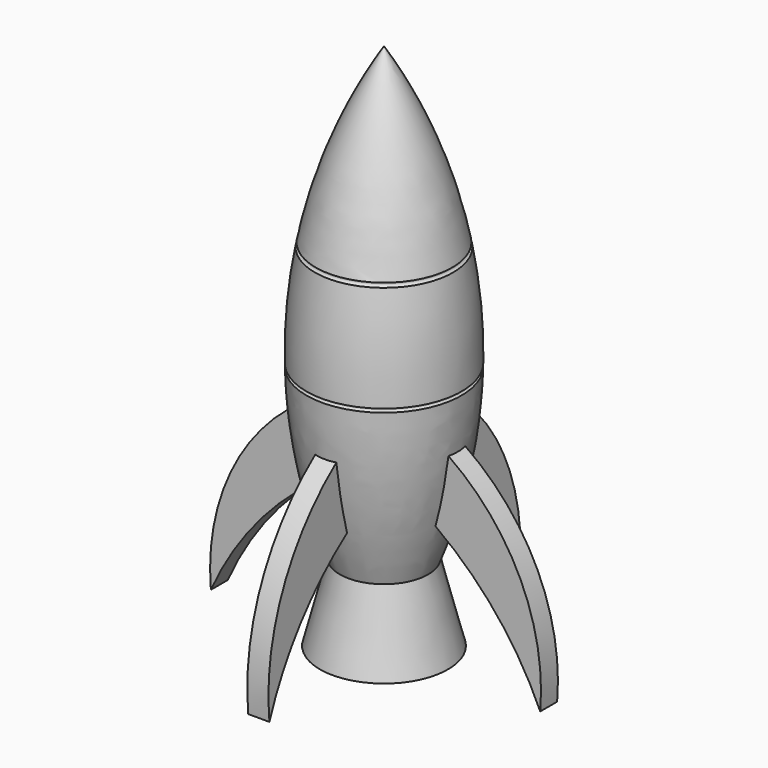
from build123d import *

# Parameters (mm, degrees)
F3_DEPTH = 1.5
F5_DEPTH = 1.5


with BuildPart() as f1:
    # F0 (on Front) → F1 (revolve)
    with BuildSketch(Plane.XZ):
        with BuildLine():
            Line((0, 7.858783), (0, 74.902989))
            ThreePointArc((0, 74.902989), (-5.978692, 63.096734), (-9.692378, 50.394728))
            ThreePointArc((-9.692378, 50.394728), (-9.455717, 50.045984), (-9.803969, 49.808601))
            ThreePointArc((-9.803969, 49.808601), (-10.770827, 42.605238), (-11.005552, 35.341068))
            ThreePointArc((-11.005552, 35.341068), (-10.745659, 35.091827), (-10.994439, 34.831492))
            ThreePointArc((-10.994439, 34.831492), (-9.647742, 22.685898), (-6.263778, 10.943758))
            Line((-6.263778, 10.943758), (-9.081526, 0))
            Line((-9.081526, 0), (-6.263778, 0))
            Line((-6.263778, 0), (-4.387327, 7.858783))
            Line((-4.387327, 7.858783), (0, 7.858783))
        make_face()
    revolve(axis=Axis((0, 0, 37.451494), (0, 0, -1)))

    # F2 (on Front) → F3 (join, symmetric)
    with BuildSketch(Plane.XZ):
        with BuildLine():
            Line((0, 23.151334), (0, 32.29171))
            ThreePointArc((0, 32.29171), (-17.682558, 20.486984), (-23.366563, 0))
            ThreePointArc((-23.366563, 0), (-13.853883, 13.766447), (0, 23.151334))
        make_face()
        with BuildLine():
            ThreePointArc((23.366563, 0), (17.682558, 20.486984), (0, 32.29171))
            Line((0, 32.29171), (0, 23.151334))
            ThreePointArc((0, 23.151334), (13.853883, 13.766447), (23.366563, 0))
        make_face()
    extrude(amount=F3_DEPTH, both=True)

    # F4 (on Right) → F5 (join, symmetric)
    with BuildSketch(Plane.YZ):
        with BuildLine():
            Line((0, 22.467051), (0, 32.705024))
            ThreePointArc((0, 32.705024), (-17.108651, 20.431419), (-22.198293, 0))
            ThreePointArc((-22.198293, 0), (-13.549792, 13.654856), (0, 22.467051))
        make_face()
        with BuildLine():
            ThreePointArc((22.198293, 0), (17.108651, 20.431419), (0, 32.705024))
            Line((0, 32.705024), (0, 22.467051))
            ThreePointArc((0, 22.467051), (13.549792, 13.654856), (22.198293, 0))
        make_face()
    extrude(amount=F5_DEPTH, both=True)


solid = f1.part
